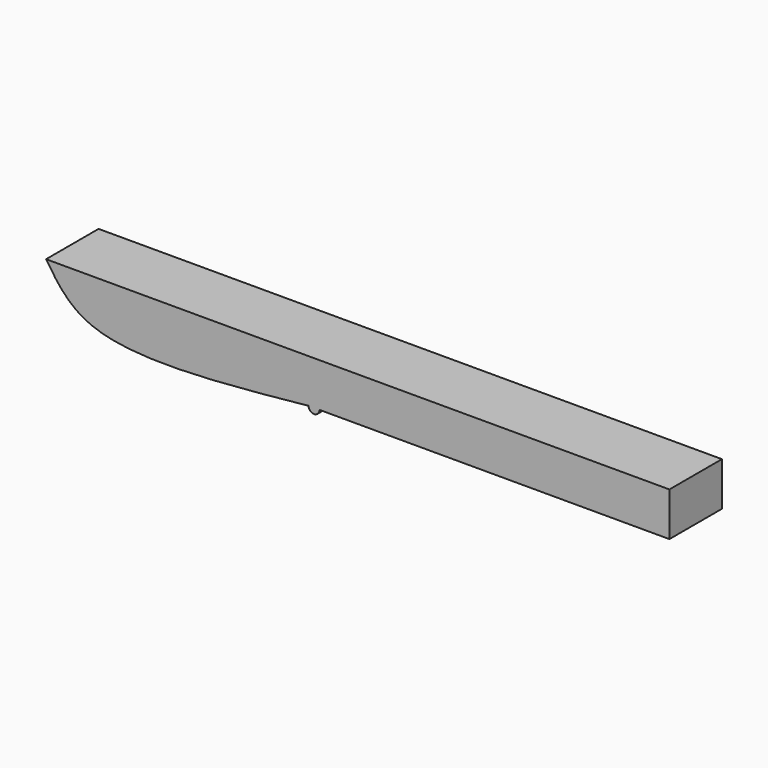
from build123d import *

# Parameters (mm, degrees)
F0_W     = 3.175
F0_H     = 12.7
F0_W_2   = 101.6
F1_DEPTH = 19.05


with BuildPart() as f1:
    # F0 (on Front) → F1 (new body)
    with BuildSketch(Plane.XZ):
        with BuildLine():
            Line((43.4889783978, -2.0487671718), (-32.7110216022, -2.0487671718))
            add(Edge.make_bspline(
                [(-32.7110216022, -2.0487671718), (-29.4416958561, -7.0267579807), (-20.1487349225, -21.1765483987), (18.4618531684, -17.2766531897), (43.4889783978, -14.7487671718)],
                knots=[0, 0, 0, 0, 0.3518066814, 1, 1, 1, 1], degree=3))
            Line((43.4889783978, -14.7487671718), (43.4889783978, -2.0487671718))
        make_face()
        with Locations((45.0764783978, -8.3987671718)):
            Rectangle(F0_W, F0_H)
        with BuildLine():
            Line((46.6639783978, -14.7487671718), (43.4889783978, -14.7487671718))
            ThreePointArc((43.4889783978, -14.7487671718), (45.0764783978, -16.3362671718), (46.6639783978, -14.7487671718))
        make_face()
        with Locations((97.4639783978, -8.3987671718)):
            Rectangle(F0_W_2, F0_H)
    extrude(amount=F1_DEPTH)


solid = f1.part
